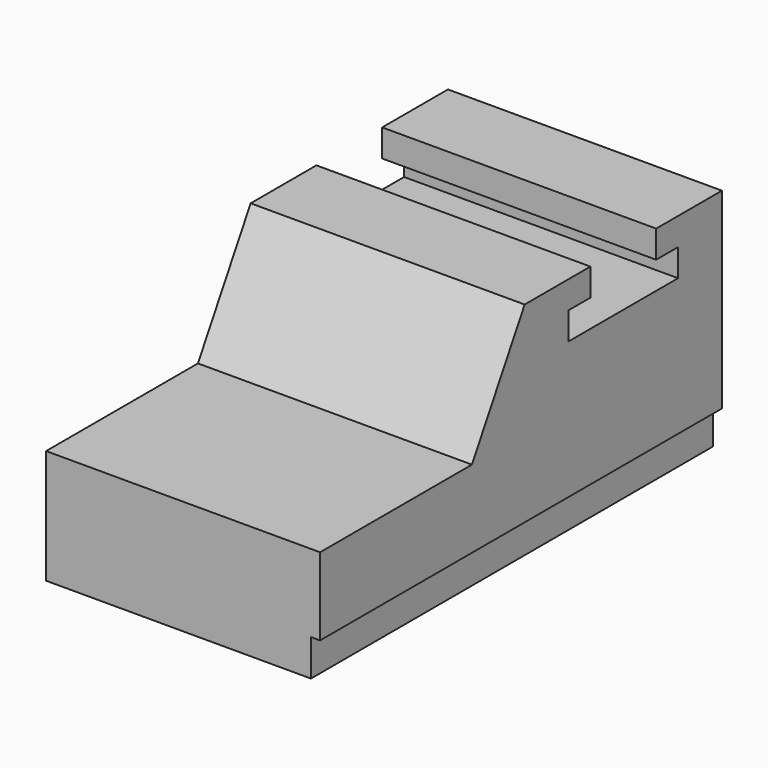
from build123d import *

# Parameters (mm, degrees)
F0_W     = 2794
F0_H     = 635
F1_DEPTH = 1524
F3_DEPTH = 1524
F4_W     = 2794
F4_H     = 203.2
F5_DEPTH = 50.8


with BuildPart() as f1:
    # F0 (on Right) → F1 (new body)
    with BuildSketch(Plane.YZ):
        with Locations((1397, -317.5)):
            Rectangle(F0_W, F0_H)
    extrude(amount=-F1_DEPTH)

    # F2 (on face) → F3 (join)
    with BuildSketch(Plane.YZ):
        Polygon((1055.782579, 0), (2794, 0), (2794, 635), (2336.8, 635), (2336.8, 482.6), (2489.2, 482.6), (2489.2, 330.2), (1727.2, 330.2), (1727.2, 482.6), (1879.6, 482.6), (1879.6, 635), (1422.4, 635), align=None)
    extrude(amount=-F3_DEPTH)

    # F4 (on face) → F5 (cut)
    with BuildSketch(Plane.YZ):
        with Locations((1397, -533.4)):
            Rectangle(F4_W, F4_H)
    extrude(amount=-F5_DEPTH, mode=Mode.SUBTRACT)


solid = f1.part
